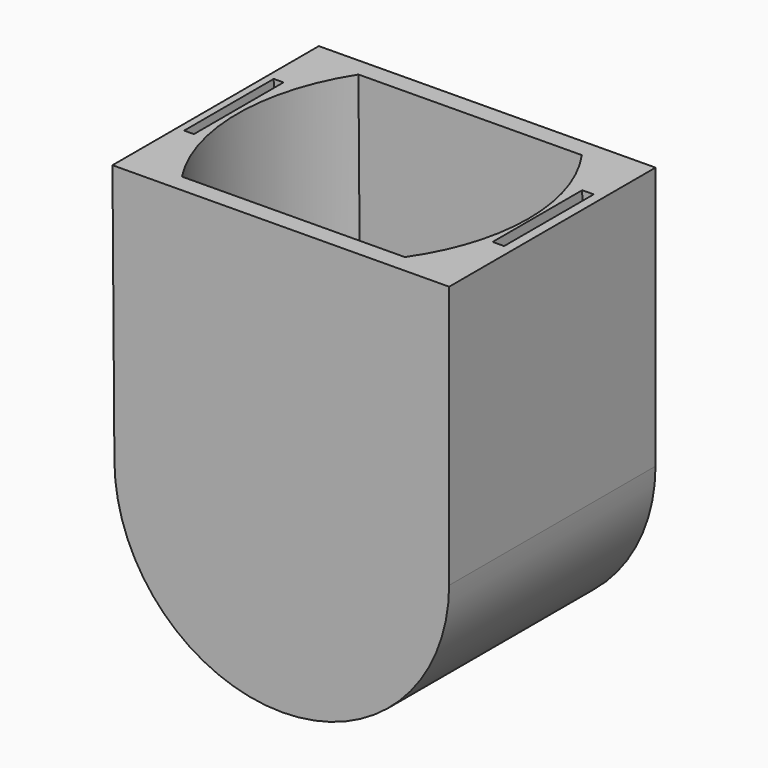
from build123d import *

# Parameters (mm, degrees)
F1_DEPTH = 38.1
F3_DEPTH = 44.45
F4_W     = 1.4423634857
F4_H     = 16.5442936122
F5_DEPTH = 12.7
F4_W_2   = 1.6968995333
F6_DEPTH = 12.7


with BuildPart() as f1:
    # F0 (on Front) → F1 (new body)
    with BuildSketch(Plane.XZ):
        with BuildLine():
            Line((-25.10883745, 38.448043143), (-24.820253253, 0))
            ThreePointArc((-24.820253253, 0), (-0.1008948311, -24.534515601), (24.6184635907, 0))
            Line((24.6184635907, 0), (24.6184635907, 38.8212874506))
            Line((24.6184635907, 38.8212874506), (-25.10883745, 38.448043143))
        make_face()
    extrude(amount=F1_DEPTH)

    # F2 (on face) → F3 (cut)
    with BuildSketch(Plane(origin=(-0.2899824262, 0, 38.6343290697), x_dir=(0.9999718325, 0, 0.0075056113), z_dir=(-0.0075056113, 0, 0.9999718325))):
        with BuildLine():
            Line((-16.7144715449, -35.4128060373), (16.2133492063, -35.4128060373))
            ThreePointArc((16.2133492063, -35.4128060373), (21.4057154297, -19.1007387378), (16.2469655347, -2.7780089998))
            Line((16.2469655347, -2.7780089998), (-16.7454987534, -2.7780089998))
            ThreePointArc((-16.7454987534, -2.7780089998), (-21.5733199015, -19.1000122708), (-16.7144715449, -35.4128060373))
        make_face()
    extrude(amount=-F3_DEPTH, mode=Mode.SUBTRACT)

    # F4 (on face) → F5 (cut)
    with BuildSketch(Plane(origin=(-0.2899824262, 0, 38.6343290697), x_dir=(0.9999718325, 0, 0.0075056113), z_dir=(-0.0075056113, 0, 0.9999718325))):
        with Locations((-23.0341581628, -17.9296452552)):
            Rectangle(F4_W, F4_H)
    extrude(amount=-F5_DEPTH, mode=Mode.SUBTRACT)

    # F4 (on face) → F6 (cut)
    with BuildSketch(Plane(origin=(-0.2899824262, 0, 38.6343290697), x_dir=(0.9999718325, 0, 0.0075056113), z_dir=(-0.0075056113, 0, 0.9999718325))):
        with Locations((-23.0341581628, -17.9296452552)):
            Rectangle(F4_W, F4_H)
        with Locations((22.6548295468, -17.9296452552)):
            Rectangle(F4_W_2, F4_H)
    extrude(amount=-F6_DEPTH, mode=Mode.SUBTRACT)


solid = f1.part
